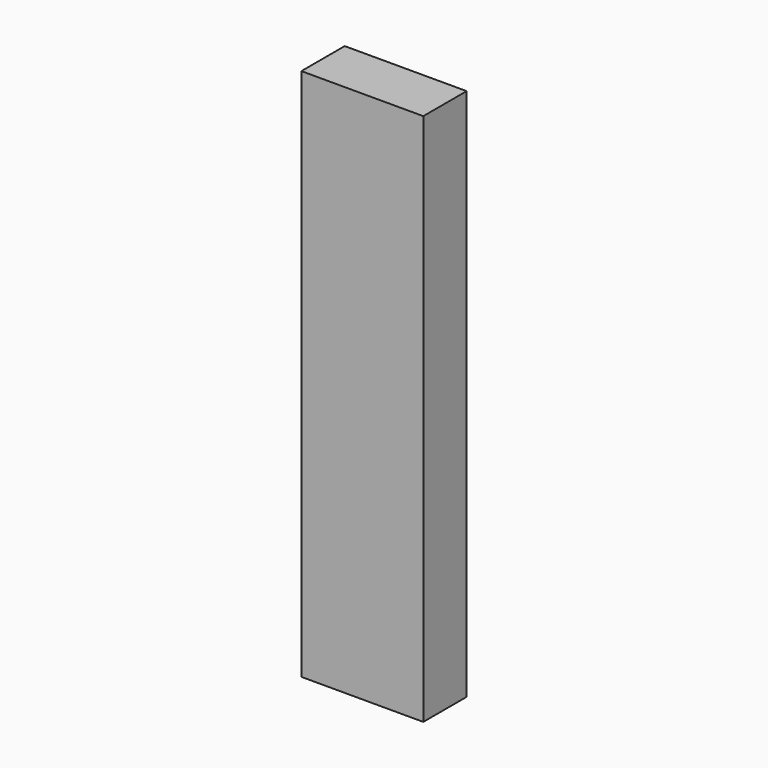
from build123d import *

# Parameters (mm, degrees)
RECTANGLE_W       = 22.86
RECTANGLE_H       = 10.16
EXTRUDE_DEPTH     = 100
CLONE_SCALE_SCALE = 0.001


with BuildPart() as extrude_body:
    # Rectangle → Extrude (new body)
    with BuildSketch(Plane(origin=(-11.43, -5.08, 0), x_dir=(1, 0, 0), z_dir=(0, 0, 1))):
        with Locations((11.43, 5.08)):
            Rectangle(RECTANGLE_W, RECTANGLE_H)
    extrude(amount=EXTRUDE_DEPTH)


with BuildPart() as extrude001:
    # Clone base: copy of Extrude body
    add(extrude_body.part)


with BuildPart() as extrude001_1:
    # Clone scale: moved
    add(extrude001.part.scale(CLONE_SCALE_SCALE))


solid = Compound([extrude_body.part, extrude001_1.part])
